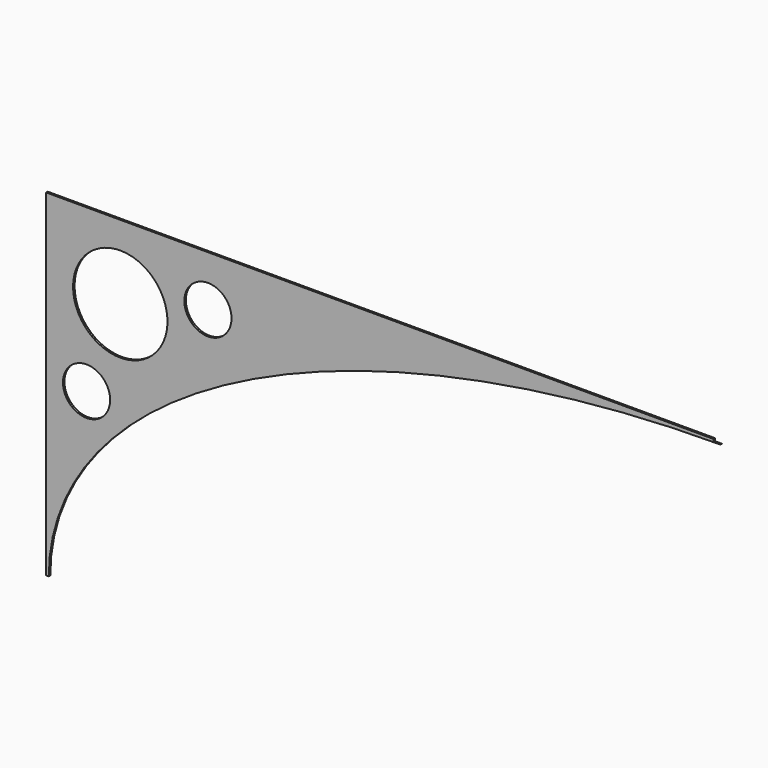
from build123d import *

# Parameters (mm, degrees)
F1_DEPTH = 1.4
F3_D     = 70
F4_D     = 35
F5_W     = 5
F5_H     = 1.4
F6_DEPTH = 2


with BuildPart() as f1:
    # F0 (on Front) → F1 (new body)
    with BuildSketch(Plane.XZ):
        with BuildLine():
            Line((234.3109268695, 164.7265180945), (-265.6890731305, 164.7265180945))
            Line((-265.6890731305, 164.7265180945), (-265.6890731305, -85.2734819055))
            Line((-265.6890731305, -85.2734819055), (-263.6890731305, -85.2734819055))
            add(Edge.make_bspline(
                [(234.3109268695, 162.7265180945), (-263.6890731305, 162.7265180945), (-263.6890731305, -85.2734819055)],
                knots=[4.7123889804, 4.7123889804, 4.7123889804, 6.2831853072, 6.2831853072, 6.2831853072], degree=2, weights=[1, 0.7071067812, 1]))
            Line((234.3109268695, 162.7265180945), (234.3109268695, 164.7265180945))
        make_face()
    extrude(amount=F1_DEPTH)

    # F3 (through all)
    with Locations(Plane.XZ.offset(1.4)):
        with Locations((-210.6890731305, 109.7265180945)):
            Hole(F3_D / 2)

    # F4 (through all)
    with Locations(Plane.XZ.offset(1.4)):
        with Locations((-145.6890731305, 127.2265180945), (-235.6890731305, 44.7265180945)):
            Hole(F4_D / 2)

    # F5 (on face) → F6 (cut)
    with BuildSketch(Plane.XY.offset(164.7265180945)):
        Polygon((239.3109268695, -5.7), (239.3109268695, 4.3), (229.3109268695, 4.3), (229.3109268695, 0), (234.3109268695, 0), (234.3109268695, -1.4), (229.3109268695, -1.4), (229.3109268695, -5.7), align=None)
        with Locations((231.8109268695, -0.7)):
            Rectangle(F5_W, F5_H)
    extrude(amount=-F6_DEPTH, mode=Mode.SUBTRACT)


solid = f1.part
